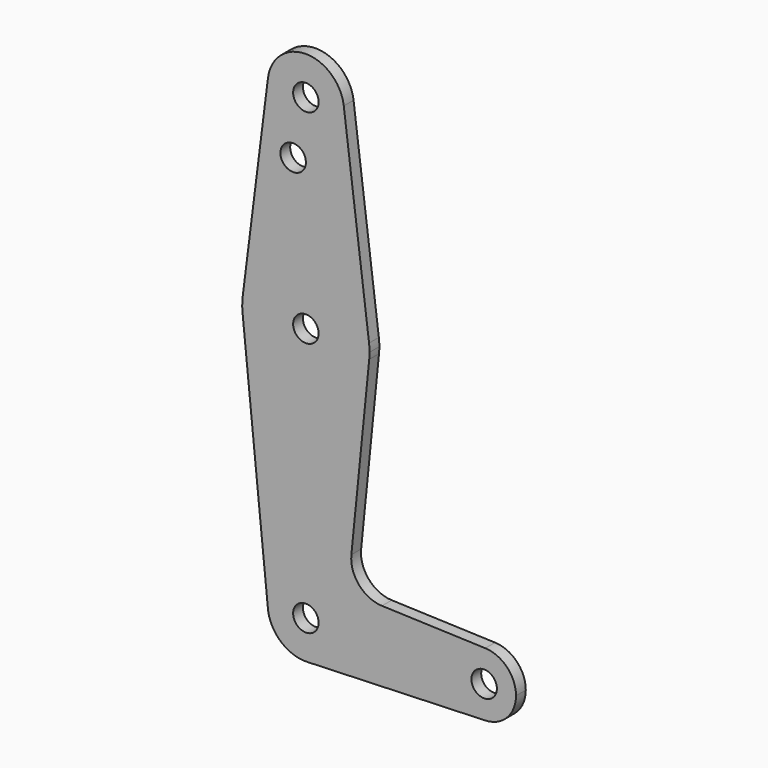
from build123d import *

# Parameters (mm, degrees)
F0_R     = 3.175
F1_DEPTH = 3.048


with BuildPart() as f1:
    # F0 (on Front) → F1 (new body)
    with BuildSketch(Plane.XZ):
        with BuildLine():
            ThreePointArc((-524.160277, -28.071068), (-524.100608, -27.278314), (-524.080702, -26.483568))
            ThreePointArc((-524.080702, -26.483568), (-524.111861, -25.489429), (-524.205214, -24.499193))
            ThreePointArc((-524.205214, -24.499193), (-539.955702, -10.608568), (-555.70619, -24.499193))
            ThreePointArc((-555.70619, -24.499193), (-555.829457, -26.284757), (-555.750949, -28.072848))
            ThreePointArc((-555.750949, -28.072848), (-539.954808, -42.358568), (-524.160277, -28.071068))
        make_face()
        with Locations((-539.955702, -26.483568)):
            Circle(F0_R, mode=Mode.SUBTRACT)
        with BuildLine():
            ThreePointArc((-555.70619, -24.499193), (-539.955702, -10.608568), (-524.205214, -24.499193))
            Line((-524.205214, -24.499193), (-530.505409, 25.507057))
            ThreePointArc((-530.505409, 25.507057), (-530.449397, 24.912916), (-530.430702, 24.316432))
            ThreePointArc((-530.430702, 24.316432), (-540.552185, 14.810128), (-549.405995, 25.507057))
            Line((-549.405995, 25.507057), (-555.70619, -24.499193))
        make_face()
        with Locations((-543.130702, 10.041632)):
            Circle(F0_R, mode=Mode.SUBTRACT)
        with BuildLine():
            Line((-528.614515, -72.390186), (-524.160277, -28.071068))
            ThreePointArc((-524.160277, -28.071068), (-539.954808, -42.358568), (-555.750949, -28.072848))
            Line((-555.750949, -28.072848), (-549.462629, -90.570054))
            ThreePointArc((-549.462629, -90.570054), (-540.249084, -80.463087), (-530.430702, -89.983568))
            ThreePointArc((-530.430702, -89.983568), (-533.101294, -96.597395), (-539.615524, -99.502491))
            Line((-539.615524, -99.502491), (-495.22222, -97.916004))
            ThreePointArc((-495.22222, -97.916004), (-503.443202, -89.983568), (-495.22222, -82.051131))
            Line((-495.22222, -82.051131), (-520.988102, -81.130334))
            ThreePointArc((-520.988102, -81.130334), (-526.694502, -78.412208), (-528.614515, -72.390186))
        make_face()
        with BuildLine():
            ThreePointArc((-530.430702, 24.316432), (-530.449397, 24.912916), (-530.505409, 25.507057))
            ThreePointArc((-530.505409, 25.507057), (-539.955702, 33.841432), (-549.405995, 25.507057))
            ThreePointArc((-549.405995, 25.507057), (-540.552185, 14.810128), (-530.430702, 24.316432))
        make_face()
        with Locations((-539.955702, 24.316432)):
            Circle(F0_R, mode=Mode.SUBTRACT)
        with BuildLine():
            ThreePointArc((-530.430702, -89.983568), (-540.249084, -80.463087), (-549.462629, -90.570054))
            ThreePointArc((-549.462629, -90.570054), (-546.355267, -97.038438), (-539.615524, -99.502491))
            ThreePointArc((-539.615524, -99.502491), (-533.101294, -96.597395), (-530.430702, -89.983568))
        make_face()
        with Locations((-539.955702, -89.983568)):
            Circle(F0_R, mode=Mode.SUBTRACT)
        with BuildLine():
            ThreePointArc((-487.568202, -89.983568), (-489.793695, -84.472045), (-495.22222, -82.051131))
            ThreePointArc((-495.22222, -82.051131), (-503.443202, -89.983568), (-495.22222, -97.916004))
            ThreePointArc((-495.22222, -97.916004), (-489.793695, -95.49509), (-487.568202, -89.983568))
        make_face()
        with Locations((-495.505702, -89.983568)):
            Circle(F0_R, mode=Mode.SUBTRACT)
    extrude(amount=F1_DEPTH)


solid = f1.part
